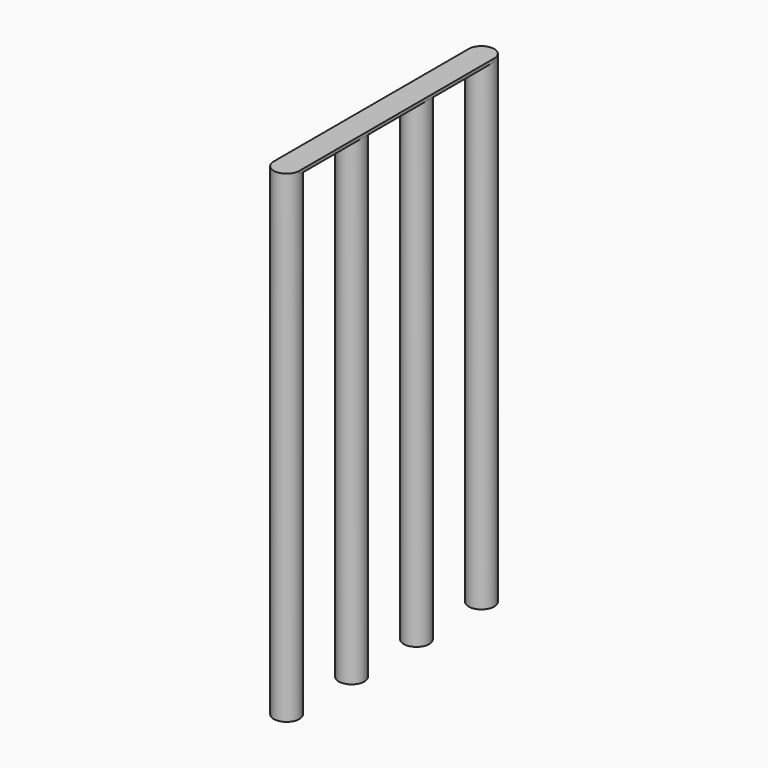
from build123d import *

# Parameters (mm, degrees)
PAD005_DEPTH           = 0.1
SKETCH009_R            = 0.4
PAD006_DEPTH           = 15
LINEARPATTERN003_COUNT = 4
LINEARPATTERN003_PITCH = 2.54


with BuildPart() as part:
    # Sketch010 → Pad005 (new body)
    with BuildSketch(Plane.XY):
        with BuildLine():
            ThreePointArc((-17.25, 3.81), (-17.65, 4.21), (-18.05, 3.81))
            Line((-18.05, 3.81), (-18.05, -3.81))
            ThreePointArc((-18.05, -3.81), (-17.65, -4.21), (-17.25, -3.81))
            Line((-17.25, 3.81), (-17.25, -3.81))
        make_face()
    extrude(amount=PAD005_DEPTH)

    # Sketch009 → Pad006 (join)
    with BuildSketch(Plane.XY):
        with Locations((-17.65, -3.81)):
            Circle(SKETCH009_R)
    pad006 = extrude(amount=-PAD006_DEPTH)

    # LinearPattern003: Pad006 ×4
    with Locations(*[(0, i * LINEARPATTERN003_PITCH, 0) for i in range(1, LINEARPATTERN003_COUNT)]):
        add(pad006)


solid = part.part
